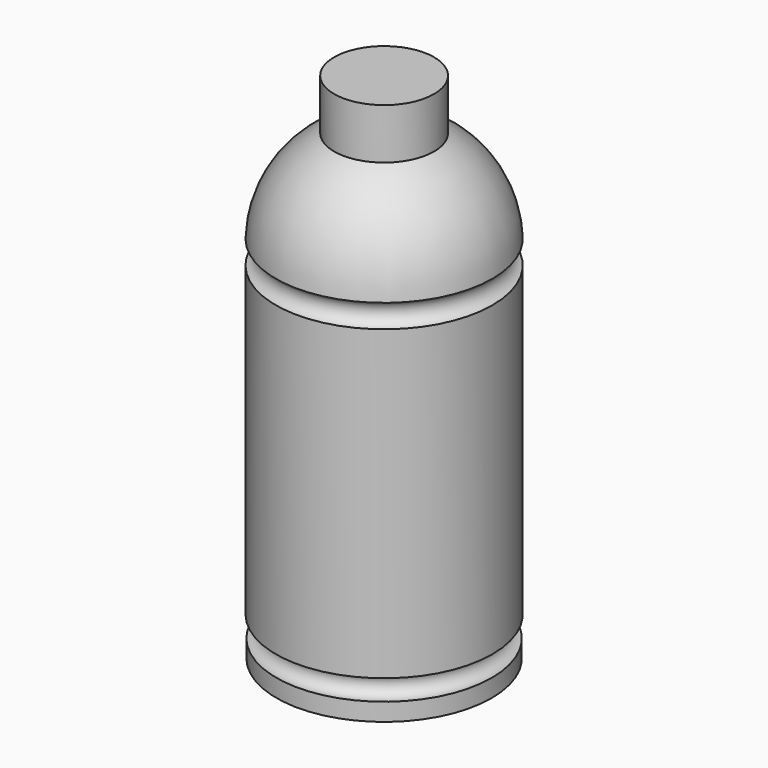
from build123d import *


with BuildPart() as f1:
    # F0 (on Front) → F1 (revolve)
    with BuildSketch(Plane.XZ):
        with BuildLine():
            Line((10.917339, 56.379259), (0, 56.379259))
            Line((0, 56.379259), (0, -55.764545))
            Line((0, -55.764545), (23.518091, -55.764545))
            Line((23.518091, -55.764545), (23.518091, -51.885273))
            ThreePointArc((23.518091, -51.885273), (20.849863, -49.491809), (23.669436, -47.278639))
            Line((23.669436, -47.278639), (23.669436, 19.881273))
            ThreePointArc((23.669436, 19.881273), (21.680896, 22.423327), (23.669436, 24.965381))
            ThreePointArc((23.669436, 24.965381), (20.064756, 36.877131), (10.917339, 45.315631))
            Line((10.917339, 45.315631), (10.917339, 56.379259))
        make_face()
    revolve(axis=Axis((0, 0, 0.307357), (0, 0, -1)))


solid = f1.part
